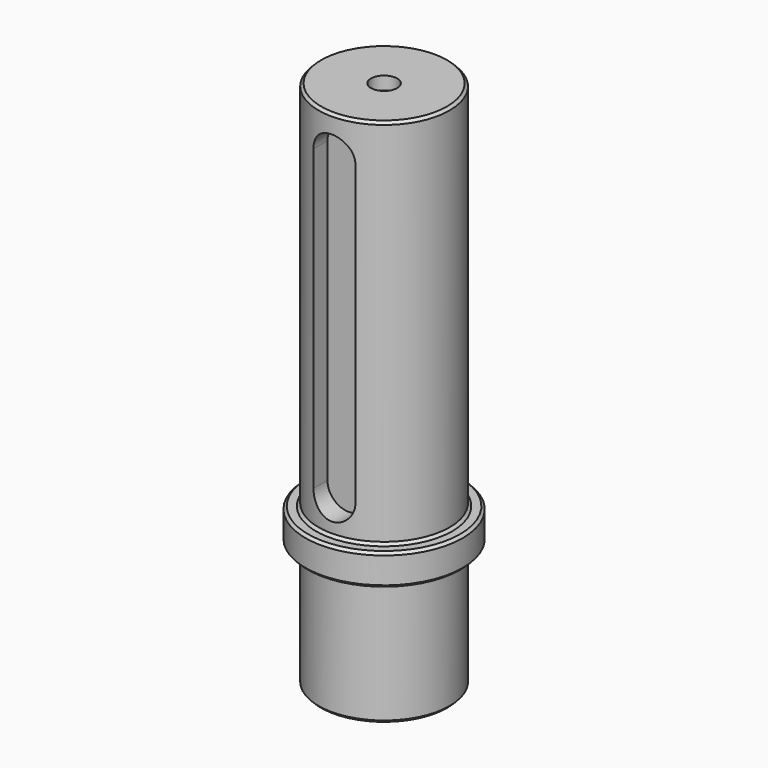
from build123d import *

# Parameters (mm, degrees)
F2_SIZE  = 0.5
F3_R     = 0.5
F6_DEPTH = 4


with BuildPart() as f1:
    # F0 (on Front) → F1 (revolve)
    with BuildSketch(Plane.XZ):
        Polygon((0, 15), (0, 0), (0, -76), (2.5, -78.5), (2.5, -81), (12.5, -81), (12.5, -78.3), (12.5, -77), (12.5, -57), (15, -57), (15, -55.7), (15, -51), (12.5, -51), (12.5, 16), (12.5, 17.1), (12.5, 20), (2.5, 20), (2.5, 17.5), align=None)
    revolve(axis=Axis((0, 0, 55.465363), (0, 0, 1)))

    # F2
    f2_edges = [f1.edges().sort_by_distance(p)[0] for p in [
        (-12.5, 0, 20),
        (-15, 0, -51),
        (-12.5, 0, -51),
        (-12.5, 0, -81),
        (-15, 0, -57),
    ]]
    chamfer(f2_edges, length=F2_SIZE)

    # F3
    f3_edges = [f1.edges().sort_by_distance(p)[0] for p in [
        (-12.5, 0, -57),
    ]]
    fillet(f3_edges, radius=F3_R)

    # F5 (on offset) → F6 (cut)
    with BuildSketch(Plane.XZ.offset(8.5)):
        with BuildLine():
            Line((4, -44.5), (4, 12.5))
            ThreePointArc((4, 12.5), (0, 16.5), (-4, 12.5))
            Line((-4, 12.5), (-4, -44.5))
            ThreePointArc((-4, -44.5), (0, -48.5), (4, -44.5))
        make_face()
    extrude(amount=F6_DEPTH, mode=Mode.SUBTRACT)


solid = f1.part
